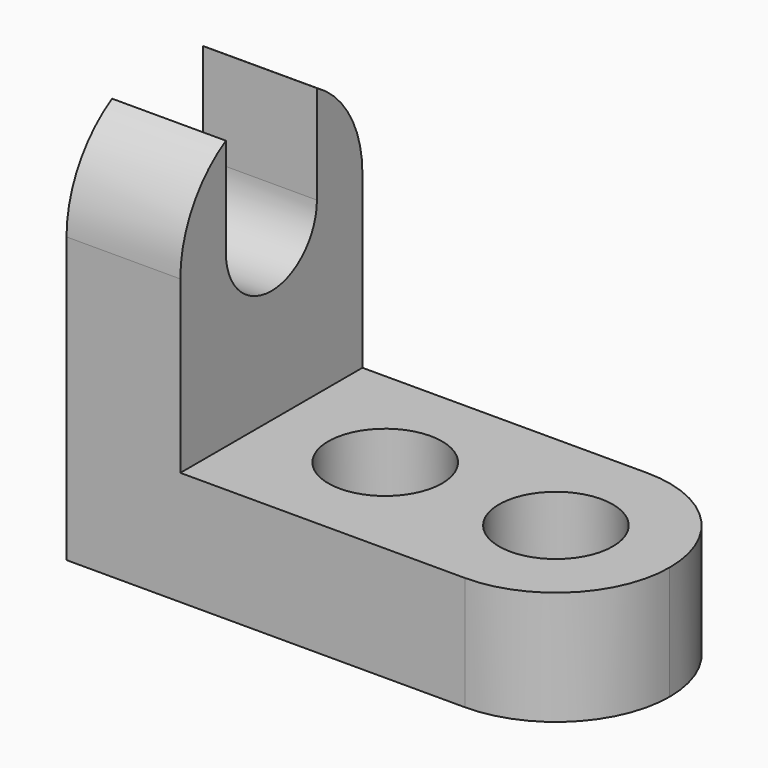
from build123d import *

# Parameters (mm, degrees)
F1_DEPTH = 25.4
F2_R     = 6.35
F3_DEPTH = 12.7
F5_DEPTH = 12.7


with BuildPart() as f1:
    # F0 (on Front) → F1 (new body)
    with BuildSketch(Plane.XZ):
        Polygon((0, 44.45), (0, 0), (57.15, 0), (57.15, 12.7), (12.7, 12.7), (12.7, 44.45), align=None)
    extrude(amount=F1_DEPTH)

    # F2 (on face) → F3 (cut)
    with BuildSketch(Plane.XY.offset(12.7)):
        with Locations((25.4, -12.7)):
            Circle(F2_R)
        with Locations((44.45, -12.7)):
            Circle(F2_R)
        with BuildLine():
            ThreePointArc((57.15, -12.7), (53.4302561211, -21.6802561211), (44.45, -25.4))
            Line((44.45, -25.4), (57.15, -25.4))
            Line((57.15, -25.4), (57.15, -12.7))
        make_face()
        with BuildLine():
            ThreePointArc((44.45, 0), (53.4302561211, -3.7197438789), (57.15, -12.7))
            Line((57.15, -12.7), (57.15, 0))
            Line((57.15, 0), (44.45, 0))
        make_face()
    extrude(amount=-F3_DEPTH, mode=Mode.SUBTRACT)

    # F4 (on face) → F5 (cut)
    with BuildSketch(Plane.YZ.offset(12.7)):
        with BuildLine():
            ThreePointArc((-19.05, 31.75), (-12.7, 25.4), (-6.35, 31.75))
            ThreePointArc((-6.35, 31.75), (-12.7, 38.1), (-19.05, 31.75))
        make_face()
        with BuildLine():
            ThreePointArc((-19.05, 31.75), (-12.7, 38.1), (-6.35, 31.75))
            Line((-6.35, 31.75), (-6.35, 42.7485226281))
            ThreePointArc((-6.35, 42.7485226281), (-9.4129981272, 44.0172579939), (-12.7, 44.45))
            ThreePointArc((-12.7, 44.45), (-15.9870018728, 44.0172579939), (-19.05, 42.7485226281))
            Line((-19.05, 42.7485226281), (-19.05, 31.75))
        make_face()
        with BuildLine():
            Line((-6.35, 44.45), (-6.35, 42.7485226281))
            ThreePointArc((-6.35, 42.7485226281), (-1.7014773719, 38.1), (0, 31.75))
            Line((0, 31.75), (0, 44.45))
            Line((0, 44.45), (-6.35, 44.45))
        make_face()
        with BuildLine():
            ThreePointArc((-25.4, 31.75), (-23.6985226281, 38.1), (-19.05, 42.7485226281))
            Line((-19.05, 42.7485226281), (-19.05, 44.45))
            Line((-19.05, 44.45), (-25.4, 44.45))
            Line((-25.4, 44.45), (-25.4, 31.75))
        make_face()
        with BuildLine():
            Line((-19.05, 44.45), (-19.05, 42.7485226281))
            ThreePointArc((-19.05, 42.7485226281), (-15.9870018728, 44.0172579939), (-12.7, 44.45))
            Line((-12.7, 44.45), (-19.05, 44.45))
        make_face()
        with BuildLine():
            ThreePointArc((-12.7, 44.45), (-9.4129981272, 44.0172579939), (-6.35, 42.7485226281))
            Line((-6.35, 42.7485226281), (-6.35, 44.45))
            Line((-6.35, 44.45), (-12.7, 44.45))
        make_face()
    extrude(amount=-F5_DEPTH, mode=Mode.SUBTRACT)


solid = f1.part
